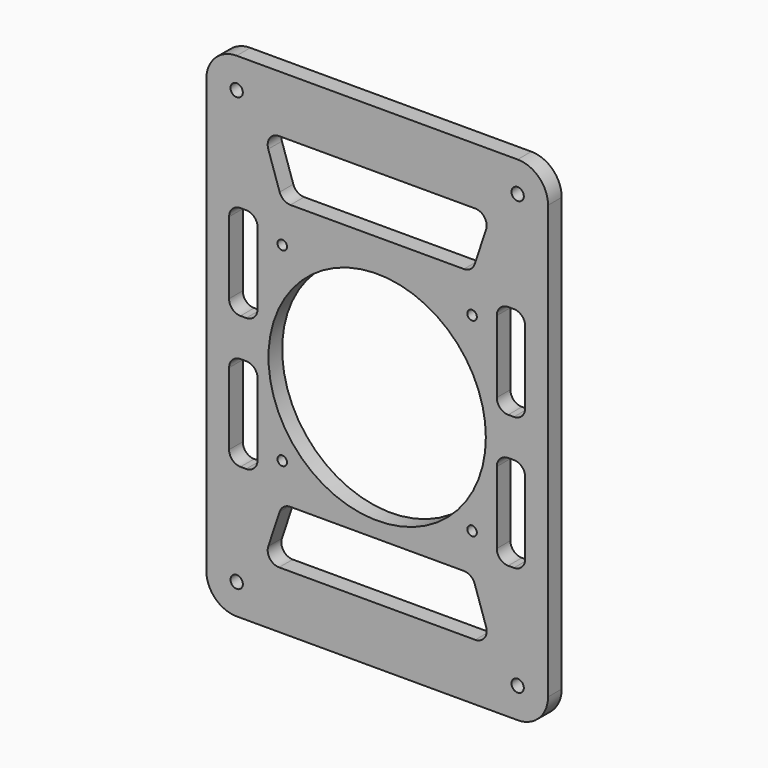
from build123d import *

# Parameters (mm, degrees)
F0_W      = 90
F0_H      = 130
F1_DEPTH  = 4.5
F2_R      = 8
F3_R      = 28.625
F4_DEPTH  = 4.501
F5_R      = 1.625
F6_DEPTH  = 4.501
F7_R      = 1.25
F8_DEPTH  = 4.501
F9_W      = 7.5
F9_H      = 25
F10_DEPTH = 4.501
F11_R     = 3


with BuildPart() as f1:
    # F0 (on Front) → F1 (new body)
    with BuildSketch(Plane.XZ):
        Rectangle(F0_W, F0_H)
    extrude(amount=-F1_DEPTH)

    # F2
    f2_edges = [f1.edges().sort_by_distance(p)[0] for p in [
        (45, 2.25, 65),
        (45, 2.25, -65),
        (-45, 2.25, -65),
        (-45, 2.25, 65),
    ]]
    fillet(f2_edges, radius=F2_R)

    # F3 (on Front) → F4 (cut, through all)
    with BuildSketch(Plane.XZ):
        with Locations((0, -2.157351)):
            Circle(F3_R)
    extrude(amount=-F4_DEPTH, mode=Mode.SUBTRACT)

    # F5 (on Front) → F6 (cut, through all)
    with BuildSketch(Plane.XZ):
        with Locations((-37, 57)):
            Circle(F5_R)
        with Locations((37, 57)):
            Circle(F5_R)
        with Locations((-37, -57)):
            Circle(F5_R)
        with Locations((37, -57)):
            Circle(F5_R)
    extrude(amount=-F6_DEPTH, mode=Mode.SUBTRACT)

    # F7 (on Front) → F8 (cut, through all)
    with BuildSketch(Plane.XZ):
        with Locations((-25, 25)):
            Circle(F7_R)
        with Locations((25, 25)):
            Circle(F7_R)
        with Locations((-25, -25)):
            Circle(F7_R)
        with Locations((25, -25)):
            Circle(F7_R)
    extrude(amount=-F8_DEPTH, mode=Mode.SUBTRACT)

    # F9 (on Front) → F10 (cut, through all)
    with BuildSketch(Plane.XZ):
        Polygon((30, 50), (-30, 50), (-25, 35), (25, 35), align=None)
        with Locations((35.25, 17.5)):
            Rectangle(F9_W, F9_H)
        with Locations((35.25, -17.5)):
            Rectangle(F9_W, F9_H)
        Polygon((30, -50), (25, -35), (-25, -35), (-30, -50), align=None)
        with Locations((-35.25, -17.5)):
            Rectangle(F9_W, F9_H)
        with Locations((-35.25, 17.5)):
            Rectangle(F9_W, F9_H)
    extrude(amount=-F10_DEPTH, mode=Mode.SUBTRACT)

    # F11
    f11_edges = [f1.edges().sort_by_distance(p)[0] for p in [
        (-39, 2.25, 5),
        (-39, 2.25, -30),
        (-30, 2.25, -50),
        (-25, 2.25, 35),
        (31.5, 2.25, 5),
        (31.5, 2.25, -30),
        (39, 2.25, -30),
        (39, 2.25, 5),
        (25, 2.25, 35),
        (30, 2.25, -50),
        (39, 2.25, 30),
        (39, 2.25, -5),
        (25, 2.25, -35),
        (31.5, 2.25, -5),
        (31.5, 2.25, 30),
        (-30, 2.25, 50),
        (30, 2.25, 50),
        (-25, 2.25, -35),
        (-39, 2.25, -5),
        (-39, 2.25, 30),
        (-31.5, 2.25, 30),
        (-31.5, 2.25, -5),
        (-31.5, 2.25, -30),
        (-31.5, 2.25, 5),
    ]]
    fillet(f11_edges, radius=F11_R)


solid = f1.part
